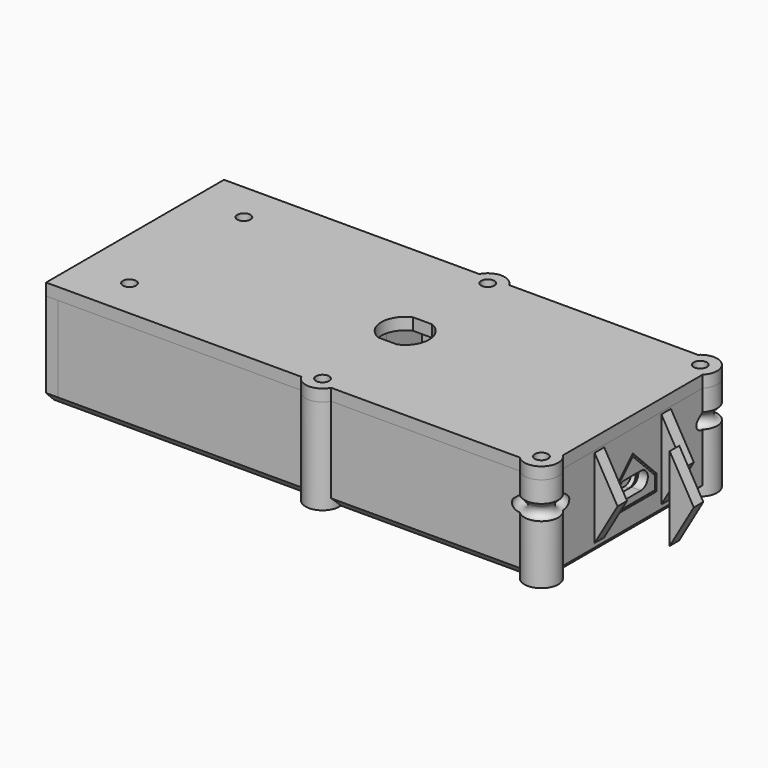
from build123d import *

# Parameters (mm, degrees)
BOX_W                   = 38.3
BOX_H                   = 48
BOX_DEPTH               = 7
BOX001_W                = 26
BOX001_H                = 20.1
BOX001_DEPTH            = 4
BOX002_W                = 50
BOX002_H                = 25.6
BOX002_DEPTH            = 12
BOX003_W                = 24
BOX003_H                = 17
BOX003_DEPTH            = 9
BOX004_W                = 35.9
BOX004_H                = 33.8
BOX004_DEPTH            = 3.3
CYLINDER_R              = 13.5
CYLINDER_DEPTH          = 0.5
SKETCH_W                = 122.3
SKETCH_H                = 56
PAD_DEPTH               = 21
PAD_DEPTH_BACK          = 3
SKETCH001_W             = 68.3
SKETCH001_H             = 48
POCKET_DEPTH            = 21
SKETCH002_W             = 50
SKETCH002_H             = 25.6
POCKET001_DEPTH         = 17
SKETCH003_W             = 26
SKETCH003_H             = 20.1
SKETCH003_W_2           = 24
SKETCH003_H_2           = 9
POCKET002_DEPTH         = 21
SKETCH004_W             = 6
SKETCH004_H             = 25.6
PAD001_DEPTH            = 4
SKETCH005_R             = 13.5
POCKET003_DEPTH         = 1
SKETCH006_R             = 4.5
SKETCH006_R_2           = 1.9
PAD002_DEPTH            = 5
SKETCH009_R             = 1.9
POCKET005_DEPTH         = 6
SKETCH011_R             = 4.25
PAD004_DEPTH            = 24
SKETCH012_R             = 1.65
POCKET007_DEPTH         = 300.537905
POCKET008_DEPTH         = 4
REVOLUTION_ANGLE        = -90
SKETCH016_W             = 3
SKETCH016_H             = 15.75
PAD005_DEPTH            = 0.1
POCKET009_DEPTH         = 17
CHAMFER_SIZE            = 2.5
FILLET_R                = 15
POCKET010_DEPTH         = 8
POCKET011_DEPTH         = 4
CHAMFER001_SIZE         = 2
SKETCH029_W             = 7
SKETCH029_H             = 5
PAD011_DEPTH            = 5
SKETCH030_W             = 4.1
SKETCH030_H             = 5
POCKET016_DEPTH         = 3.3
PAD012_DEPTH            = 7
PAD013_DEPTH            = 3
SKETCH034_R             = 4.25
PAD015_DEPTH            = 21
PAD015_DEPTH_BACK       = 3
SKETCH035_R             = 1.65
POCKET017_DEPTH         = 291.325896
POCKET017_DEPTH_BACK    = 309.325896
POCKET018_DEPTH         = 10
SKETCH020_R             = 1.9
PAD006_DEPTH            = 3
SKETCH021_R             = 1.65
PAD007_DEPTH            = 3
POCKET015_DEPTH         = 24.001
SKETCH022_W             = 28
SKETCH022_H             = 19
PAD008_DEPTH            = 4
SKETCH023_W             = 11.2
SKETCH023_H             = 6
POCKET012_DEPTH         = 1
POCKET013_DEPTH         = 0.6
POCKET014_DEPTH         = 2.4
BODY004_PLACEMENT_ANGLE = 180
CHAMFER003_SIZE         = 0.5
CLONE_SCALE_SCALE       = 0.95
SKETCH027_W             = 41.3
SKETCH027_H             = 47.8
SKETCH027_W_2           = 35.9
SKETCH027_H_2           = 33.8
PAD009_DEPTH            = 3.3
PAD010_DEPTH            = 1.5
CHAMFER002_SIZE         = 5
PAD014_DEPTH            = 3


with BuildPart() as pcb:
    # Box → Box (new body)
    with BuildSketch(Plane(origin=(15, -24, 5), x_dir=(1, 0, 0), z_dir=(0, 0, 1))):
        with Locations((19.15, 24)):
            Rectangle(BOX_W, BOX_H)
    extrude(amount=BOX_DEPTH)


with BuildPart() as battery:
    # Box001 → Box001 (new body)
    with BuildSketch(Plane(origin=(-26, -10.05, 0), x_dir=(1, 0, 0), z_dir=(0, 0, 1))):
        with Locations((13, 10.05)):
            Rectangle(BOX001_W, BOX001_H)
    extrude(amount=BOX001_DEPTH)


with BuildPart() as laser:
    # Box002 → Box002 (new body)
    with BuildSketch(Plane(origin=(-65, -12.8, 4.5), x_dir=(1, 0, 0), z_dir=(0, 0, 1))):
        with Locations((25, 12.8)):
            Rectangle(BOX002_W, BOX002_H)
    extrude(amount=BOX002_DEPTH)


with BuildPart() as bluetooth:
    # Box003 → Box003 (new body)
    with BuildSketch(Plane(origin=(-23, -15.5, 0), x_dir=(1, 0, 0), z_dir=(0, -1, 0))):
        with Locations((12, 8.5)):
            Rectangle(BOX003_W, BOX003_H)
    extrude(amount=BOX003_DEPTH)


with BuildPart() as lcd:
    # Box004 → Box004 (new body)
    with BuildSketch(Plane(origin=(16.4, -16.9, 17.7), x_dir=(1, 0, 0), z_dir=(0, 0, 1))):
        with Locations((17.95, 16.9)):
            Rectangle(BOX004_W, BOX004_H)
    extrude(amount=BOX004_DEPTH)


with BuildPart() as beeper:
    # Cylinder → Cylinder (new body)
    with BuildSketch(Plane(origin=(34, 0, 0), x_dir=(1, 0, 0), z_dir=(0, 0, 1))):
        Circle(CYLINDER_R)
    extrude(amount=CYLINDER_DEPTH)


with BuildPart() as body:
    # Sketch → Pad (new body, two sides)
    with BuildSketch(Plane.XY) as pad_sk:
        with Locations((-3.85, 0)):
            Rectangle(SKETCH_W, SKETCH_H)
    extrude(amount=PAD_DEPTH)
    extrude(pad_sk.sketch, amount=-PAD_DEPTH_BACK)

    # Sketch001 (on DatumPlane) → Pocket (cut)
    with BuildSketch(Plane.XY.offset(21)):
        with Locations((19.15, 0)):
            Rectangle(SKETCH001_W, SKETCH001_H)
    extrude(amount=-POCKET_DEPTH, mode=Mode.SUBTRACT)

    # Sketch002 (on DatumPlane) → Pocket001 (cut)
    with BuildSketch(Plane.XY.offset(21)):
        with Locations((-40, 0)):
            Rectangle(SKETCH002_W, SKETCH002_H)
    extrude(amount=-POCKET001_DEPTH, mode=Mode.SUBTRACT)

    # Sketch003 (on DatumPlane) → Pocket002 (cut)
    with BuildSketch(Plane.XY.offset(21)):
        with Locations((-13, 0)):
            Rectangle(SKETCH003_W, SKETCH003_H)
        with Locations((-11, -20)):
            Rectangle(SKETCH003_W_2, SKETCH003_H_2)
    extrude(amount=-POCKET002_DEPTH, mode=Mode.SUBTRACT)

    # Sketch004 (on DatumPlane) → Pad001 (join)
    with BuildSketch(Plane.XY.offset(21)):
        with Locations((-62, 0)):
            Rectangle(SKETCH004_W, SKETCH004_H)
    extrude(amount=-PAD001_DEPTH)

    # Sketch005 → Pocket003 (cut)
    with BuildSketch(Plane.XY):
        with Locations((34, 0)):
            Circle(SKETCH005_R)
    extrude(amount=-POCKET003_DEPTH, mode=Mode.SUBTRACT)

    # Sketch006 → Pad002 (join)
    with BuildSketch(Plane.XY):
        with Locations((17.7, 13.5)):
            Circle(SKETCH006_R)
        with Locations((17.7, 13.5)):
            Circle(SKETCH006_R_2, mode=Mode.SUBTRACT)
        with Locations((48.3, 13.5)):
            Circle(SKETCH006_R)
        with Locations((48.3, 13.5)):
            Circle(SKETCH006_R_2, mode=Mode.SUBTRACT)
        with Locations((48.3, -13.5)):
            Circle(SKETCH006_R)
        with Locations((48.3, -13.5)):
            Circle(SKETCH006_R_2, mode=Mode.SUBTRACT)
        with Locations((17.7, -13.5)):
            Circle(SKETCH006_R)
        with Locations((17.7, -13.5)):
            Circle(SKETCH006_R_2, mode=Mode.SUBTRACT)
    extrude(amount=PAD002_DEPTH)

    # Sketch009 (on Face4 of Pad) → Pocket005 (cut)
    with BuildSketch(Plane(origin=(-65, 0, 0), x_dir=(0, -1, 0), z_dir=(-1, 0, 0))):
        with Locations((-20, 9)):
            Circle(SKETCH009_R)
        with Locations((20, 9)):
            Circle(SKETCH009_R)
    extrude(amount=-POCKET005_DEPTH, mode=Mode.SUBTRACT)

    # Sketch011 (on DatumPlane) → Pad004 (join)
    with BuildSketch(Plane.XY.offset(21)):
        with Locations((54.3, 25)):
            Circle(SKETCH011_R)
    pad004 = extrude(amount=-PAD004_DEPTH)

    # Sketch012 (on DatumPlane) → Pocket007 (cut, through all)
    with BuildSketch(Plane.XY.offset(21)):
        with Locations((54.3, 25)):
            Circle(SKETCH012_R)
        with Locations((-55, 18)):
            Circle(SKETCH012_R)
    pocket007 = extrude(amount=-POCKET007_DEPTH, mode=Mode.SUBTRACT)

    # Sketch013 → Pocket008 (cut)
    with BuildSketch(Plane.XY.offset(-3)):
        Polygon((-51.535898, 18), (-53.267949, 21), (-56.732051, 21), (-58.464102, 18), (-56.732051, 15), (-53.267949, 15), align=None)
        Polygon((56.032051, 22), (57.764102, 25), (56.032051, 28), (52.567949, 28), (50.835898, 25), (52.567949, 22), align=None)
    pocket008 = extrude(amount=POCKET008_DEPTH, mode=Mode.SUBTRACT)

    # Sketch014 (on Face2 of Pad) → Revolution (revolve)
    with BuildSketch(Plane.YZ.offset(54.3)):
        Polygon((23, 6), (17, 12), (17, 17.7), (23, 17.7), align=None)
    revolution = revolve(axis=Axis((54.3, 25, 21), (0, 0, 1)), revolution_arc=REVOLUTION_ANGLE)

    # Sketch015 (on Face2 of Pad) → Groove (revolve, cut)
    with BuildSketch(Plane.YZ.offset(54.3)):
        with BuildLine():
            Line((20.75, 15.7), (21.881371, 14.568629))
            ThreePointArc((19.618629, 14.568629), (20.75, 11.837258), (21.881371, 14.568629))
            Line((19.618629, 14.568629), (20.75, 15.7))
        make_face()
    groove = revolve(axis=Axis((54.3, 25, 21), (0, 0, 1)), mode=Mode.SUBTRACT)

    # Mirrored: Pad004, Pocket007, Pocket008 across XZ
    add(pad004.mirror(Plane.XZ))
    add(pocket007.mirror(Plane.XZ), mode=Mode.SUBTRACT)
    add(pocket008.mirror(Plane.XZ), mode=Mode.SUBTRACT)

    # Sketch016 → Pad005 (join)
    with BuildSketch(Plane.XY):
        with Locations((10.5, 16.125)):
            Rectangle(SKETCH016_W, SKETCH016_H)
    pad005 = extrude(amount=PAD005_DEPTH)

    # Mirrored001: Pad005 across Sketch016 H_Axis
    add(pad005.mirror(Plane.ZX))

    # Sketch017 (on Face1 of ShapeBinder) → Pocket009 (cut)
    with BuildSketch(Plane(origin=(15, -24, 5), x_dir=(0, -1, 0), z_dir=(-1, 0, 0))):
        Polygon((0, 7), (2, 5), (2, 2), (0, 0), align=None)
    extrude(amount=-POCKET009_DEPTH, mode=Mode.SUBTRACT)

    # Mirrored002: Revolution, Groove across Sketch014 V_Axis
    add(revolution.mirror(Plane(origin=(54.3, 0, 0), x_dir=(1, 0, 0), z_dir=(0, 1, 0))))
    add(groove.mirror(Plane(origin=(54.3, 0, 0), x_dir=(1, 0, 0), z_dir=(0, 1, 0))), mode=Mode.SUBTRACT)

    # Chamfer
    chamfer_edges = [body.edges().sort_by_distance(p)[0] for p in [
        (-6.855199, 28, -3),
        (57.3, 0, -3),
        (-6.855199, -28, -3),
    ]]
    chamfer(chamfer_edges, length=CHAMFER_SIZE)

    # Fillet
    fillet_edges = [body.edges().sort_by_distance(p)[0] for p in [
        (10.5, -24, 0.1),
        (10.5, 24, 0.1),
    ]]
    fillet(fillet_edges, radius=FILLET_R)

    # Sketch018 (on Face2 of ShapeBinder) → Pocket010 (cut)
    with BuildSketch(Plane(origin=(53.3, -24, 5), x_dir=(0, 1, 0), z_dir=(1, 0, 0))):
        Polygon((2, 0), (2, 2), (5, 5), (5, 0), align=None)
    pocket010 = extrude(amount=-POCKET010_DEPTH, mode=Mode.SUBTRACT)

    # Mirrored003: Pocket010 across XZ
    add(pocket010.mirror(Plane.XZ), mode=Mode.SUBTRACT)

    # Sketch019 (on Face2 of ShapeBinder) → Pocket011 (cut)
    with BuildSketch(Plane(origin=(53.3, -24, 5), x_dir=(0, 1, 0), z_dir=(1, 0, 0))):
        Polygon((16.5, -1), (31.5, -1), (31.5, 3), (24, 10.5), (16.5, 3), align=None)
    extrude(amount=POCKET011_DEPTH, mode=Mode.SUBTRACT)

    # Chamfer001
    chamfer001_edges = [body.edges().sort_by_distance(p)[0] for p in [
        (53.3, 0, 4),
        (53.3, 7.5, 6),
        (53.3, 3.75, 11.75),
        (53.3, -3.75, 11.75),
        (53.3, -7.5, 6),
    ]]
    chamfer(chamfer001_edges, length=CHAMFER001_SIZE)

    # Sketch029 (on DatumPlane) → Pad011 (join)
    with BuildSketch(Plane.XY.offset(21)):
        with Locations((12.4, 21.5)):
            Rectangle(SKETCH029_W, SKETCH029_H)
    pad011 = extrude(amount=-PAD011_DEPTH)

    # Sketch030 (on DatumPlane) → Pocket016 (cut)
    with BuildSketch(Plane.XY.offset(21)):
        with Locations((13.85, 21.5)):
            Rectangle(SKETCH030_W, SKETCH030_H)
    pocket016 = extrude(amount=-POCKET016_DEPTH, mode=Mode.SUBTRACT)

    # Sketch031 (on Face73 of Pocket016) → Pad012 (join)
    with BuildSketch(Plane(origin=(8.9, 0, 0), x_dir=(0, -1, 0), z_dir=(-1, 0, 0))):
        Polygon((-24, 16), (-19, 16), (-24, 11), align=None)
    pad012 = extrude(amount=-PAD012_DEPTH)

    # Mirrored004: Pad011, Pocket016, Pad012 across XZ
    add(pad011.mirror(Plane.XZ))
    add(pocket016.mirror(Plane.XZ), mode=Mode.SUBTRACT)
    add(pad012.mirror(Plane.XZ))

    # Sketch032 → Pad013 (join)
    with BuildSketch(Plane.XZ.offset(9)):
        Polygon((57, 0), (57, 21), (63.062178, 10.5), align=None)
    pad013 = extrude(amount=PAD013_DEPTH)

    # Mirrored005: Pad013 across XZ
    add(pad013.mirror(Plane.XZ))

    # Sketch034 → Pad015 (join, two sides)
    with BuildSketch(Plane.XY) as pad015_sk:
        with Locations((0, -26)):
            Circle(SKETCH034_R)
    pad015 = extrude(amount=PAD015_DEPTH) + extrude(pad015_sk.sketch, amount=-PAD015_DEPTH_BACK)

    # Mirrored006: Pad015 across Sketch034 H_Axis
    add(pad015.mirror(Plane.ZX))

    # Sketch035 → Pocket017 (cut, two sides)
    with BuildSketch(Plane.XY) as pocket017_sk:
        with Locations((0, -26)):
            Circle(SKETCH035_R)
    pocket017 = extrude(amount=-POCKET017_DEPTH, mode=Mode.SUBTRACT) + extrude(pocket017_sk.sketch, amount=POCKET017_DEPTH_BACK, mode=Mode.SUBTRACT)

    # Sketch036 → Pocket018 (cut)
    with BuildSketch(Plane.XY):
        Polygon((3.464102, -26), (1.732051, -23), (-1.732051, -23), (-3.464102, -26), (-1.732051, -29), (1.732051, -29), align=None)
    pocket018 = extrude(amount=-POCKET018_DEPTH, mode=Mode.SUBTRACT)

    # Mirrored007: Pocket017, Pocket018 across Sketch035 H_Axis
    add(pocket017.mirror(Plane.ZX), mode=Mode.SUBTRACT)
    add(pocket018.mirror(Plane.ZX), mode=Mode.SUBTRACT)


with BuildPart() as main_body:
    # Body001 base: copy of Body
    add(body.part)


with BuildPart() as front_plate:
    # Sketch020 → Pad006 (new body)
    with BuildSketch(Plane.YZ):
        Polygon((-28, 21), (28, 21), (28, -0.5), (25.5, -3), (-25.5, -3), (-28, -0.5), align=None)
        with Locations((-20, 9)):
            Circle(SKETCH020_R, mode=Mode.SUBTRACT)
        with Locations((20, 9)):
            Circle(SKETCH020_R, mode=Mode.SUBTRACT)
    extrude(amount=PAD006_DEPTH)


with BuildPart() as front_plate_1:
    # Body002 placement: moved
    add(front_plate.part.moved(Location((-68, 0, 0))))


with BuildPart() as top_plate:
    # Sketch021 → Pad007 (new body)
    with BuildSketch(Plane.XY.offset(21)):
        with BuildLine():
            Line((51.289601, -28), (3.75, -28))
            ThreePointArc((-3.75, -28), (0, -30.25), (3.75, -28))
            Line((-3.75, -28), (-68, -28))
            Line((-68, 28), (-68, -28))
            Line((-68, 28), (-3.75, 28))
            ThreePointArc((3.75, 28), (0, 30.25), (-3.75, 28))
            Line((3.75, 28), (51.289601, 28))
            ThreePointArc((57.3, 21.989601), (57.305204, 28.005204), (51.289601, 28))
            Line((57.3, 21.989601), (57.3, -21.989601))
            ThreePointArc((51.289601, -28), (57.305204, -28.005204), (57.3, -21.989601))
        make_face()
        with Locations((-55, 18)):
            Circle(SKETCH021_R, mode=Mode.SUBTRACT)
        with Locations((-55, -18)):
            Circle(SKETCH021_R, mode=Mode.SUBTRACT)
        with Locations((54.3, -25)):
            Circle(SKETCH021_R, mode=Mode.SUBTRACT)
        with Locations((54.3, 25)):
            Circle(SKETCH021_R, mode=Mode.SUBTRACT)
        with Locations((0, -26)):
            Circle(SKETCH021_R, mode=Mode.SUBTRACT)
        with Locations((0, 26)):
            Circle(SKETCH021_R, mode=Mode.SUBTRACT)
    extrude(amount=PAD007_DEPTH)

    # Sketch026 → Pocket015 (cut, through all)
    with BuildSketch(Plane.XY):
        with BuildLine():
            ThreePointArc((2.397916, -5.5), (6, 0), (2.397916, 5.5))
            Line((-2.397916, 5.5), (2.397916, 5.5))
            ThreePointArc((-2.397916, 5.5), (-6, 0), (-2.397916, -5.5))
            Line((-2.397916, -5.5), (2.397916, -5.5))
        make_face()
    extrude(amount=POCKET015_DEPTH, mode=Mode.SUBTRACT)


with BuildPart() as main_body_clone:
    # Body004002 base: copy of Body
    add(body.part)


with BuildPart() as chamfer003:
    # Sketch022 (on Face2 of ShapeBinder007) → Pad008 (new body)
    with BuildSketch(Plane(origin=(53.3, -24, 5), x_dir=(0, 1, 0), z_dir=(1, 0, 0))):
        with Locations((24, 4.5)):
            Rectangle(SKETCH022_W, SKETCH022_H)
    extrude(amount=PAD008_DEPTH)

    # Sketch023 (on Face6 of Pad008) → Pocket012 (cut)
    with BuildSketch(Plane(origin=(57.3, -24, 5), x_dir=(0, 1, 0), z_dir=(1, 0, 0))):
        with Locations((24, 3.4)):
            Rectangle(SKETCH023_W, SKETCH023_H)
    extrude(amount=-POCKET012_DEPTH, mode=Mode.SUBTRACT)

    # Sketch024 (on Face11 of Pocket012) → Pocket013 (cut)
    with BuildSketch(Plane(origin=(56.3, -24, 5), x_dir=(0, 1, 0), z_dir=(1, 0, 0))):
        with BuildLine():
            ThreePointArc((21.35, 5.9), (18.85, 3.4), (21.35, 0.9))
            Line((21.35, 0.9), (26.65, 0.9))
            ThreePointArc((26.65, 0.9), (29.15, 3.4), (26.65, 5.9))
            Line((21.35, 5.9), (26.65, 5.9))
        make_face()
    extrude(amount=-POCKET013_DEPTH, mode=Mode.SUBTRACT)

    # Sketch025 (on Face16 of Pocket013) → Pocket014 (cut)
    with BuildSketch(Plane(origin=(55.7, -24, 5), x_dir=(0, 1, 0), z_dir=(1, 0, 0))):
        with BuildLine():
            ThreePointArc((21.45, 5.6), (19.25, 3.4), (21.45, 1.2))
            Line((21.45, 1.2), (26.55, 1.2))
            ThreePointArc((26.55, 1.2), (28.75, 3.4), (26.55, 5.6))
            Line((21.45, 5.6), (26.55, 5.6))
        make_face()
    extrude(amount=-POCKET014_DEPTH, mode=Mode.SUBTRACT)


with BuildPart() as chamfer003_1:
    # Body004 placement: moved
    add(chamfer003.part.moved(Location((110.6, 0, 0))).rotate(Axis((110.6, 0, 0), (0, 0, 1)), BODY004_PLACEMENT_ANGLE))

    # Cut: cut Main Body Clone
    add(main_body_clone.part, mode=Mode.SUBTRACT)

    # Chamfer003
    chamfer003_edges = [chamfer003_1.edges().sort_by_distance(p)[0] for p in [
        (57.3, 3.75, 11.75),
        (57.3, -3.75, 11.75),
        (57.3, -7.5, 6),
        (57.3, 0, 4),
        (57.3, 7.5, 6),
    ]]
    chamfer(chamfer003_edges, length=CHAMFER003_SIZE)


with BuildPart() as end_widget_final001:
    # Clone base: copy of Chamfer003
    add(chamfer003_1.part)


with BuildPart() as end_widget_final001_1:
    # Clone scale: moved
    add(end_widget_final001.part.scale(CLONE_SCALE_SCALE))


with BuildPart() as lcd_holder:
    # Sketch027 (on Face6 of ShapeBinder008) → Pad009 (new body)
    with BuildSketch(Plane(origin=(16.4, -16.9, 21), x_dir=(1, 0, 0), z_dir=(0, 0, 1))):
        with Locations((16.25, 16.9)):
            Rectangle(SKETCH027_W, SKETCH027_H)
        with Locations((17.95, 16.9)):
            Rectangle(SKETCH027_W_2, SKETCH027_H_2, mode=Mode.SUBTRACT)
    extrude(amount=-PAD009_DEPTH)

    # Sketch028 (on Face5 of ShapeBinder008) → Pad010 (join)
    with BuildSketch(Plane(origin=(16.4, -16.9, 17.7), x_dir=(1, 0, 0), z_dir=(0, 0, -1))):
        with BuildLine():
            Line((36.9, 0), (36.9, -33.8))
            ThreePointArc((36.9, -33.8), (32.164713, -36.09341), (29.812973, -40.8))
            Line((29.812973, -40.8), (-0.4, -40.8))
            Line((-0.4, -40.8), (-0.4, 7))
            Line((-0.4, 7), (29.812973, 7))
            ThreePointArc((29.812973, 7), (32.164713, 2.29341), (36.9, 0))
        make_face()
        Polygon((35.7, -12), (35.7, -26), (27.9, -33.8), (8, -33.8), (0.2, -26), (0.2, -12), align=None, mode=Mode.SUBTRACT)
    extrude(amount=PAD010_DEPTH)

    # Chamfer002
    chamfer002_edges = [lcd_holder.edges().sort_by_distance(p)[0] for p in [
        (53.3, 23.9, 19.35),
        (53.3, -23.9, 19.35),
    ]]
    chamfer(chamfer002_edges, length=CHAMFER002_SIZE)


with BuildPart() as obj1:
    # Sketch033 → Pad014 (new body)
    with BuildSketch(Plane.XZ):
        Polygon((0, 0), (0, 21), (6.062178, 10.5), align=None)
    extrude(amount=PAD014_DEPTH)


with BuildPart() as obj1_1:
    # Body004004 placement: moved
    add(obj1.part.moved(Location((69, 0, 0))))


solid = Compound([pcb.part, battery.part, laser.part, bluetooth.part, lcd.part, beeper.part, main_body.part, front_plate_1.part, top_plate.part, chamfer003_1.part, end_widget_final001_1.part, lcd_holder.part, obj1_1.part])
